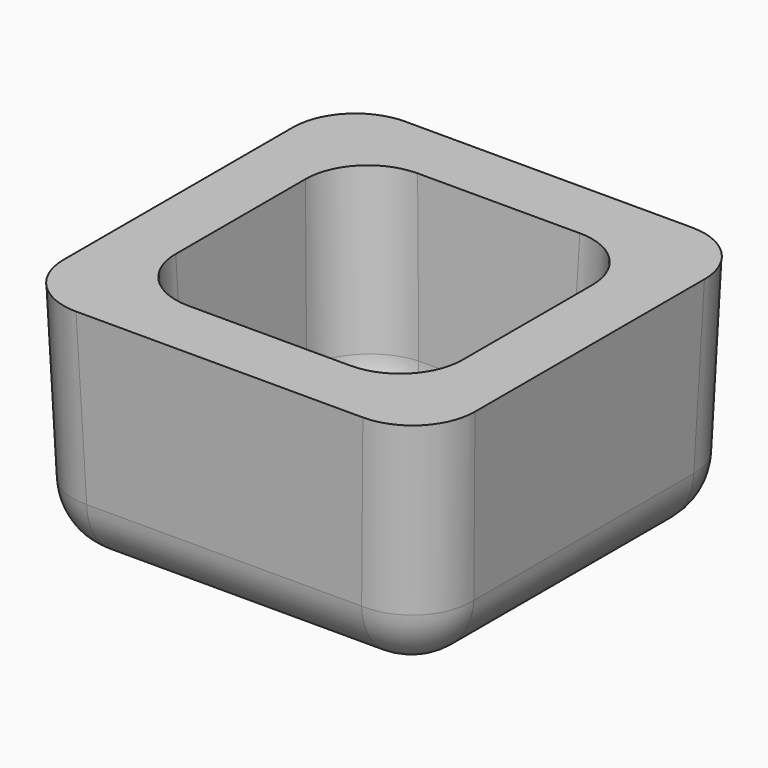
from build123d import *

# Parameters (mm, degrees)
F0_W     = 66
F0_H     = 66
F0_W_2   = 46
F0_H_2   = 46
F1_DEPTH = 37
F1_TAPER = 2
F2_DEPTH = 35.5
F2_TAPER = 2
F3_R     = 10
F4_R     = 10


with BuildPart() as f1:
    # F0 (on Top) → F1 (new body)
    with BuildSketch(Plane.XY):
        with Locations((33, 33)):
            Rectangle(F0_W, F0_H)
        with Locations((33, 33)):
            Rectangle(F0_W_2, F0_H_2, mode=Mode.SUBTRACT)
        with Locations((33, 33)):
            Rectangle(F0_W_2, F0_H_2)
    extrude(amount=-F1_DEPTH, taper=F1_TAPER)

    # F0 (on Top) → F2 (cut)
    with BuildSketch(Plane.XY):
        with Locations((33, 33)):
            Rectangle(F0_W_2, F0_H_2)
    extrude(amount=-F2_DEPTH, taper=F2_TAPER, mode=Mode.SUBTRACT)

    # F3
    f3_edges = [f1.edges().sort_by_distance(p)[0] for p in [
        (11.239687, 33, -35.5),
        (33, 11.239687, -35.5),
        (54.760313, 33, -35.5),
        (33, 54.760313, -35.5),
        (55.380156, 10.619844, -17.75),
        (10.619844, 55.380156, -17.75),
        (10.619844, 10.619844, -17.75),
        (55.380156, 55.380156, -17.75),
    ]]
    fillet(f3_edges, radius=F3_R)

    # F4
    f4_edges = [f1.edges().sort_by_distance(p)[0] for p in [
        (1.292068, 33, -37),
        (33, 1.292068, -37),
        (64.707932, 33, -37),
        (33, 64.707932, -37),
        (65.353966, 65.353966, -18.5),
        (0.646034, 65.353966, -18.5),
        (0.646034, 0.646034, -18.5),
        (65.353966, 0.646034, -18.5),
    ]]
    fillet(f4_edges, radius=F4_R)


solid = f1.part
